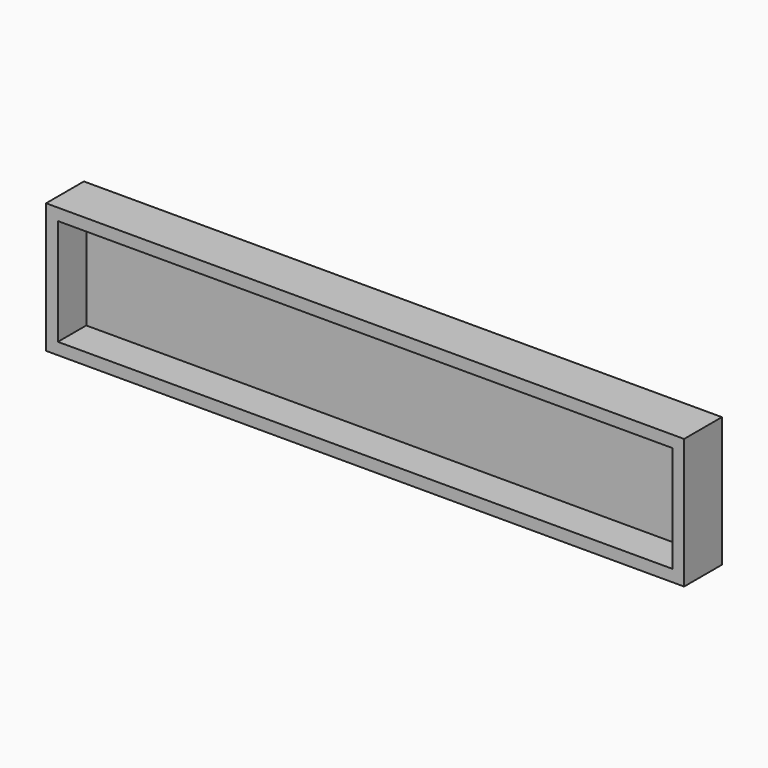
from build123d import *

# Parameters (mm, degrees)
F0_W     = 132.08
F0_H     = 22.86
F1_DEPTH = 3.81
F2_T     = 2.54


with BuildPart() as f1:
    # F0 (on Front) → F1 (new body, symmetric)
    with BuildSketch(Plane.XZ):
        Rectangle(F0_W, F0_H)
    extrude(amount=F1_DEPTH, both=True)

    # F2
    f2_openings = [f1.faces().sort_by_distance(p)[0] for p in [
        (0, -3.81, 0),
    ]]
    offset(amount=F2_T, openings=f2_openings, kind=Kind.INTERSECTION)


solid = f1.part
